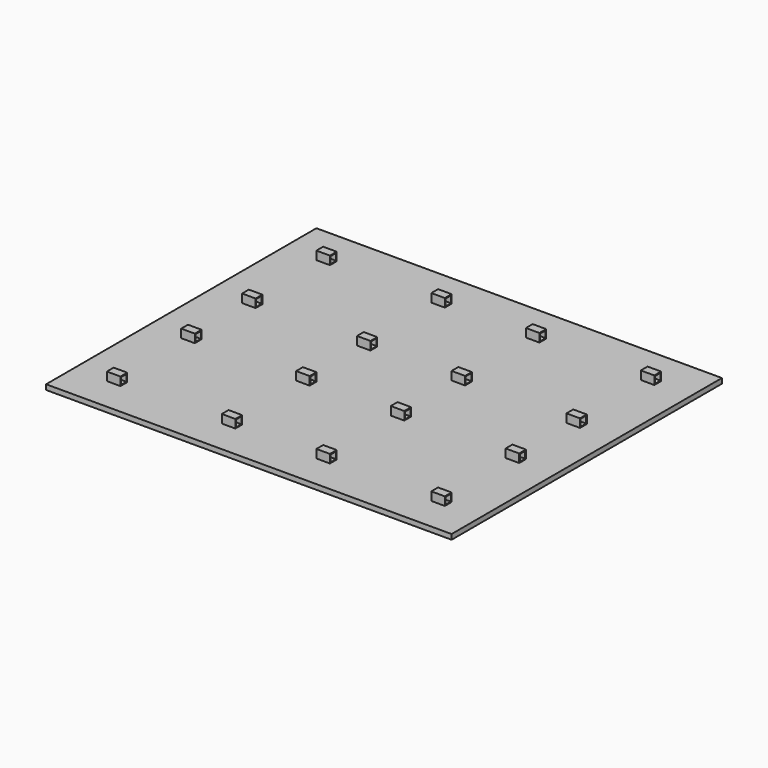
from build123d import *

# Parameters (mm, degrees)
F0_W     = 1200
F0_H     = 1000
F1_DEPTH = 30
F2_W     = 80
F2_H     = 50
F3_DEPTH = 50
F4_W     = 41
F4_H     = 41
F4_W_2   = 40
F4_H_2   = 40
F5_DEPTH = 2200


with BuildPart() as f1:
    # F0 (on Top) → F1 (new body)
    with BuildSketch(Plane.XY):
        with Locations((-600, 500)):
            Rectangle(F0_W, F0_H)
        with Locations((600, 500)):
            Rectangle(F0_W, F0_H)
        with Locations((600, -500)):
            Rectangle(F0_W, F0_H)
        with Locations((-600, -500)):
            Rectangle(F0_W, F0_H)
    extrude(amount=F1_DEPTH)

    # F2 (on face) → F3 (join)
    with BuildSketch(Plane.XY.offset(30)):
        with Locations((-960, 775)):
            Rectangle(F2_W, F2_H)
        with Locations((-280, 775)):
            Rectangle(F2_W, F2_H)
        with Locations((280, 775)):
            Rectangle(F2_W, F2_H)
        with Locations((960, 775)):
            Rectangle(F2_W, F2_H)
        with Locations((-960, -775)):
            Rectangle(F2_W, F2_H)
        with Locations((-280, -775)):
            Rectangle(F2_W, F2_H)
        with Locations((280, -775)):
            Rectangle(F2_W, F2_H)
        with Locations((960, -775)):
            Rectangle(F2_W, F2_H)
        with Locations((-960, 225)):
            Rectangle(F2_W, F2_H)
        with Locations((-280, 225)):
            Rectangle(F2_W, F2_H)
        with Locations((280, 225)):
            Rectangle(F2_W, F2_H)
        with Locations((960, 225)):
            Rectangle(F2_W, F2_H)
        with Locations((-960, -225)):
            Rectangle(F2_W, F2_H)
        with Locations((-280, -225)):
            Rectangle(F2_W, F2_H)
        with Locations((280, -225)):
            Rectangle(F2_W, F2_H)
        with Locations((960, -225)):
            Rectangle(F2_W, F2_H)
    extrude(amount=F3_DEPTH)

    # F4 (on face) → F5 (cut)
    with BuildSketch(Plane(origin=(-1000, 0, 0), x_dir=(0, -1, 0), z_dir=(-1, 0, 0))):
        with Locations((-225, 55)):
            Rectangle(F4_W, F4_H)
        with Locations((-775.5, 54.5)):
            Rectangle(F4_W_2, F4_H_2)
        with Locations((225.5, 54.5)):
            Rectangle(F4_W_2, F4_H_2)
        with Locations((775.5, 54.5)):
            Rectangle(F4_W_2, F4_H_2)
    extrude(amount=-F5_DEPTH, mode=Mode.SUBTRACT)


solid = f1.part
